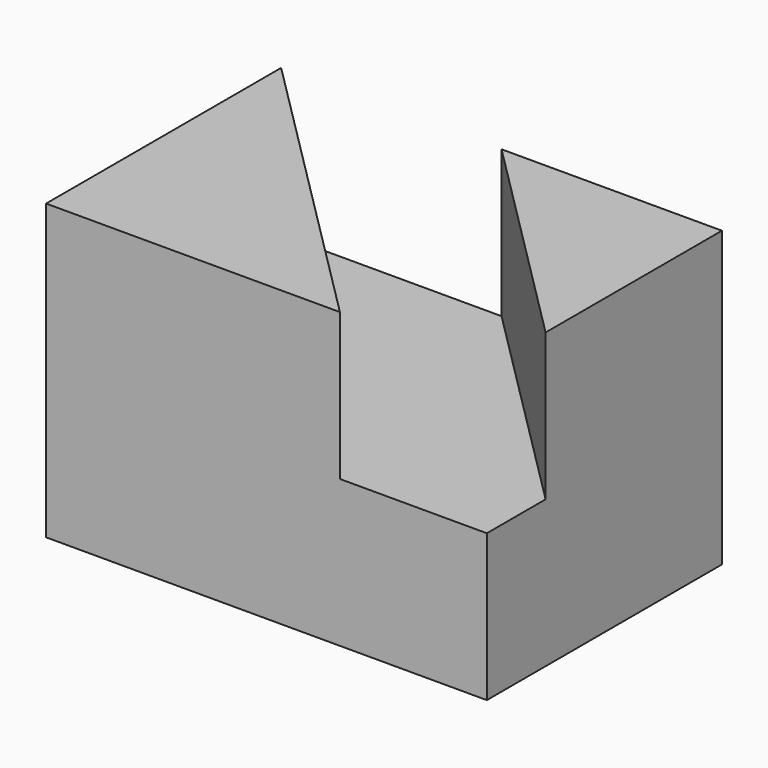
from build123d import *

# Parameters (mm, degrees)
F0_W     = 38.1
F0_H     = 25.4
F1_DEPTH = 25.4
F2_W     = 12.7
F2_H     = 12.7
F3_DEPTH = 6.35
F5_DEPTH = 25.401
F6_W     = 38.1
F6_H     = 12.7
F7_DEPTH = 25.4


with BuildPart() as f1:
    # F0 (on Front) → F1 (new body)
    with BuildSketch(Plane.XZ):
        with Locations((-19.05, 12.7)):
            Rectangle(F0_W, F0_H)
    extrude(amount=-F1_DEPTH)

    # F2 (on Front) → F3 (cut)
    with BuildSketch(Plane.XZ):
        with Locations((-6.35, 19.05)):
            Rectangle(F2_W, F2_H)
    extrude(amount=-F3_DEPTH, mode=Mode.SUBTRACT)

    # F4 (on Top) → F5 (cut, through all)
    with BuildSketch(Plane.XY):
        Polygon((-38.1, 25.4), (-12.7, 0), (-12.7, 6.35), (0, 6.35), (-19.05, 25.4), align=None)
    extrude(amount=F5_DEPTH, mode=Mode.SUBTRACT)

    # F6 (on Front) → F7 (join)
    with BuildSketch(Plane.XZ):
        with Locations((-19.05, 6.35)):
            Rectangle(F6_W, F6_H)
    extrude(amount=-F7_DEPTH)


solid = f1.part
